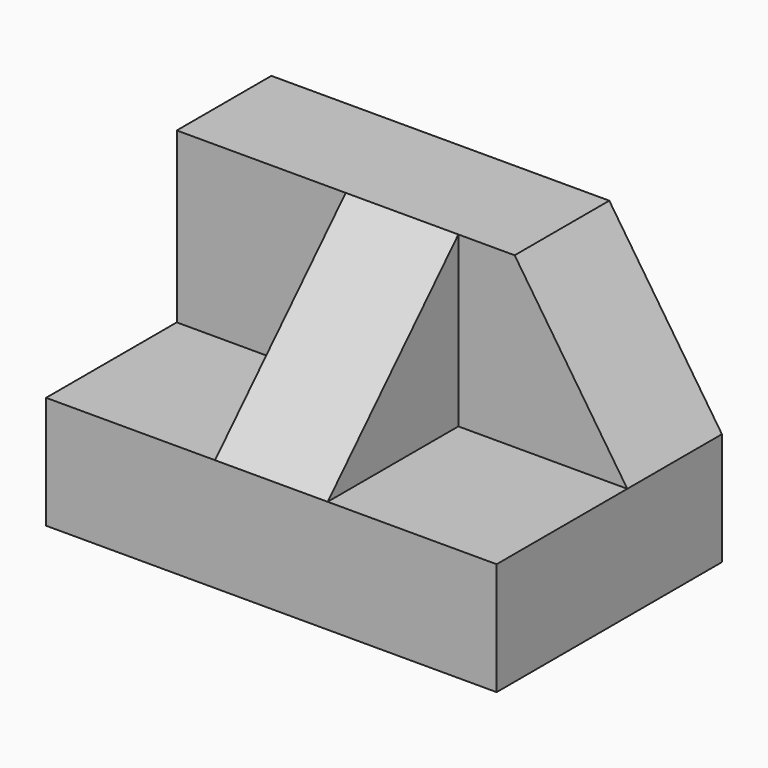
from build123d import *

# Parameters (mm, degrees)
F0_W      = 50.8
F0_H      = 31.75
F1_DEPTH  = 12.7
F2_W      = 50.8
F2_H      = 13.333772
F3_DEPTH  = 19.05
F5_DEPTH  = 25.4
F7_W      = 12.7
F7_H      = 19.05
F8_DEPTH  = 19.05
F10_DEPTH = 19.05


with BuildPart() as f1:
    # F0 (on Top) → F1 (new body)
    with BuildSketch(Plane.XY):
        with Locations((25.4, 15.875)):
            Rectangle(F0_W, F0_H)
    extrude(amount=F1_DEPTH)

    # F2 (on face) → F3 (join)
    with BuildSketch(Plane.XY.offset(12.7)):
        with Locations((25.4, 25.083114)):
            Rectangle(F2_W, F2_H)
    extrude(amount=F3_DEPTH)

    # F4 (on face) → F5 (cut)
    with BuildSketch(Plane.XZ.offset(-18.416228)):
        Polygon((38.1, 31.75), (50.8, 12.7), (50.8, 31.75), align=None)
    extrude(amount=-F5_DEPTH, mode=Mode.SUBTRACT)

    # F7 (on face) → F8 (join)
    with BuildSketch(Plane.XY.offset(12.7)):
        with Locations((25.4, 9.525)):
            Rectangle(F7_W, F7_H)
    extrude(amount=F8_DEPTH)

    # F9 (on face) → F10 (cut)
    with BuildSketch(Plane.YZ.offset(31.75)):
        Polygon((0, 12.7), (18.416228, 31.75), (0, 31.75), align=None)
    extrude(amount=-F10_DEPTH, mode=Mode.SUBTRACT)


solid = f1.part
